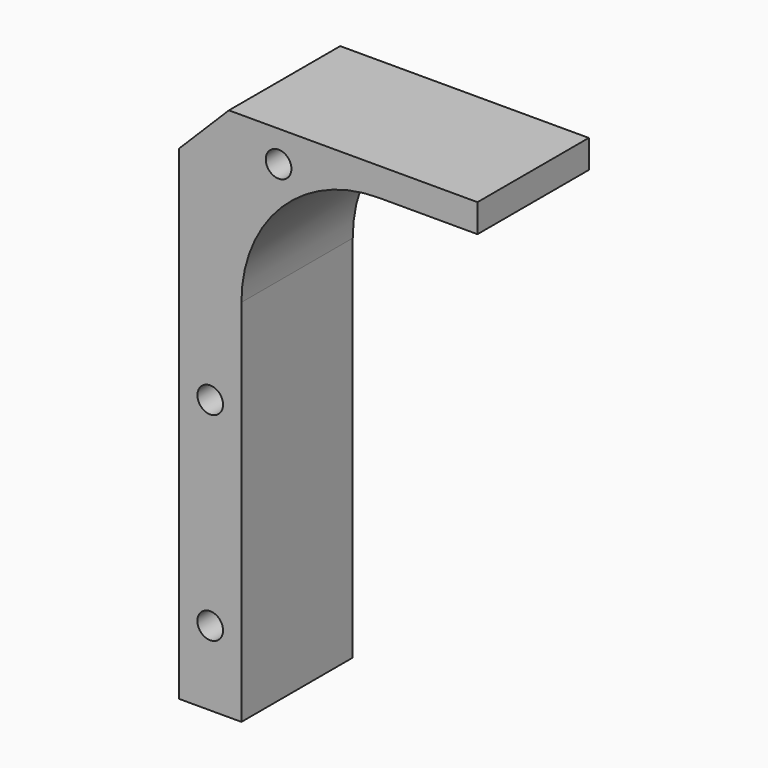
from build123d import *

# Parameters (mm, degrees)
F1_DEPTH = 17.78
F2_SIZE  = 6.35
F4_D     = 3.2766


with BuildPart() as f1:
    # F0 (on Front) → F1 (new body)
    with BuildSketch(Plane.XZ):
        with BuildLine():
            Line((0, 68.2752), (0, 0))
            Line((0, 0), (7.9502, 0))
            Line((7.9502, 0), (7.9502, 47.1932))
            ThreePointArc((7.9502, 47.1932), (13.068568, 59.550032), (25.4254, 64.6684))
            Line((25.4254, 64.6684), (38.1127, 64.6684))
            Line((38.1127, 64.6684), (38.1127, 68.2752))
            Line((38.1127, 68.2752), (0, 68.2752))
        make_face()
    extrude(amount=F1_DEPTH)

    # F2
    f2_edges = [f1.edges().sort_by_distance(p)[0] for p in [
        (0, -8.89, 68.2752),
    ]]
    chamfer(f2_edges, length=F2_SIZE)

    # F4 (through all)
    with Locations(Plane.XZ.offset(17.78)):
        with Locations((12.7, 64.2874), (3.9624, 9.525), (3.9624, 34.925)):
            Hole(F4_D / 2)


solid = f1.part
